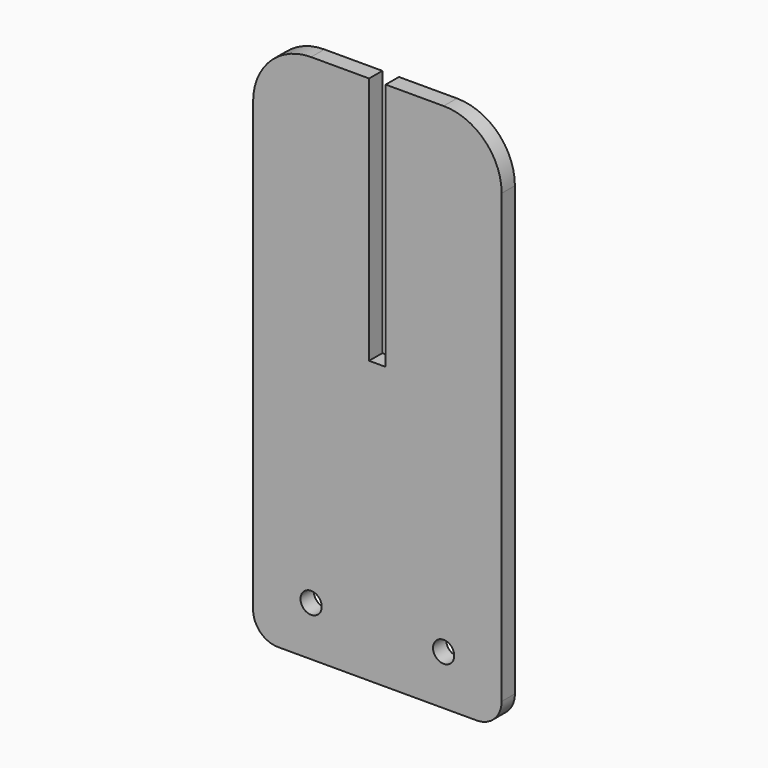
from build123d import *

# Parameters (mm, degrees)
F0_R     = 4.064
F1_DEPTH = 6.35


with BuildPart() as f1:
    # F0 (on Front) → F1 (new body)
    with BuildSketch(Plane.XZ):
        with BuildLine():
            Line((-38.1, -101.6), (38.1, -101.6))
            ThreePointArc((38.1, -101.6), (44.835192, -98.810192), (47.625, -92.075))
            Line((47.625, -92.075), (47.625, 79.375))
            ThreePointArc((47.625, 79.375), (41.115448, 95.090448), (25.4, 101.6))
            Line((25.4, 101.6), (3.175, 101.6))
            Line((3.175, 101.6), (3.175, 6.35))
            Line((3.175, 6.35), (-3.175, 6.35))
            Line((-3.175, 6.35), (-3.175, 101.6))
            Line((-3.175, 101.6), (-25.4, 101.6))
            ThreePointArc((-25.4, 101.6), (-41.115448, 95.090448), (-47.625, 79.375))
            Line((-47.625, 79.375), (-47.625, -92.075))
            ThreePointArc((-47.625, -92.075), (-44.835192, -98.810192), (-38.1, -101.6))
        make_face()
        with Locations((-25.4, -82.55)):
            Circle(F0_R, mode=Mode.SUBTRACT)
        with Locations((25.4, -82.55)):
            Circle(F0_R, mode=Mode.SUBTRACT)
    extrude(amount=F1_DEPTH)


solid = f1.part
